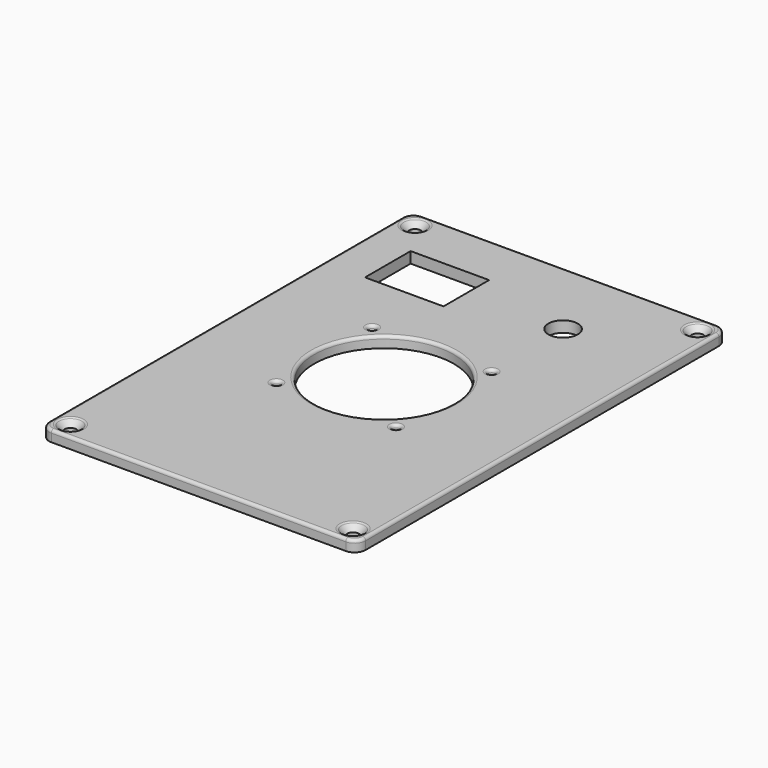
from build123d import *

# Parameters (mm, degrees)
SKETCH_W        = 86
SKETCH_H        = 126
PAD_DEPTH       = 3
SKETCH001_R     = 19
SKETCH001_R_2   = 1
SKETCH001_R_3   = 1.6
POCKET_DEPTH    = 5
FILLET_R        = 2.99
CHAMFER_SIZE    = 1.7
FILLET001_R     = 0.8
SKETCH002_R     = 4
SKETCH002_W     = 21.33
SKETCH002_H     = 15.49
POCKET001_DEPTH = 3.001


with BuildPart() as part:
    # Sketch → Pad (new body)
    with BuildSketch(Plane.XY):
        Rectangle(SKETCH_W, SKETCH_H)
    extrude(amount=PAD_DEPTH)

    # Sketch001 (on Face6 of Pad) → Pocket (cut)
    with BuildSketch(Plane.XY.offset(3)):
        Circle(SKETCH001_R)
        with Locations((-16.25, 16.25)):
            Circle(SKETCH001_R_2)
        with Locations((16.25, 16.25)):
            Circle(SKETCH001_R_2)
        with Locations((16.25, -16.25)):
            Circle(SKETCH001_R_2)
        with Locations((-16.25, -16.25)):
            Circle(SKETCH001_R_2)
        with Locations((-38.4, 58.525)):
            Circle(SKETCH001_R_3)
        with Locations((38.4, 58.525)):
            Circle(SKETCH001_R_3)
        with Locations((38.4, -58.525)):
            Circle(SKETCH001_R_3)
        with Locations((-38.4, -58.525)):
            Circle(SKETCH001_R_3)
    extrude(amount=-POCKET_DEPTH, mode=Mode.SUBTRACT)

    # Fillet
    fillet_edges = [part.edges().sort_by_distance(p)[0] for p in [
        (-43, -63, 1.5),
        (43, -63, 1.5),
        (43, 63, 1.5),
        (-43, 63, 1.5),
    ]]
    fillet(fillet_edges, radius=FILLET_R)

    # Chamfer
    chamfer_edges = [part.edges().sort_by_distance(p)[0] for p in [
        (-40, 58.525, 3),
        (36.8, 58.525, 3),
        (36.8, -58.525, 3),
        (-40, -58.525, 3),
    ]]
    chamfer(chamfer_edges, length=CHAMFER_SIZE)

    # Fillet001
    fillet001_edges = [part.edges().sort_by_distance(p)[0] for p in [
        (-41.7, 58.525, 3),
        (0, 63, 3),
        (-42.124249, 62.124249, 3),
        (42.124249, 62.124249, 3),
        (-43, 0, 3),
        (43, 0, 3),
        (-42.124249, -62.124249, 3),
        (42.124249, -62.124249, 3),
        (0, -63, 3),
        (15.25, -16.25, 3),
        (-19, 0, 3),
        (-17.25, -16.25, 3),
        (-17.25, 16.25, 3),
        (15.25, 16.25, 3),
        (35.1, 58.525, 3),
        (35.1, -58.525, 3),
        (-41.7, -58.525, 3),
    ]]
    fillet(fillet001_edges, radius=FILLET001_R)

    # Sketch002 (on Face1 of Fillet001) → Pocket001 (cut, through all)
    with BuildSketch(Plane.XY.offset(3)):
        with Locations((15.875, 41)):
            Circle(SKETCH002_R)
        with Locations((-21.1, 41)):
            Rectangle(SKETCH002_W, SKETCH002_H)
    extrude(amount=-POCKET001_DEPTH, mode=Mode.SUBTRACT)


solid = part.part
